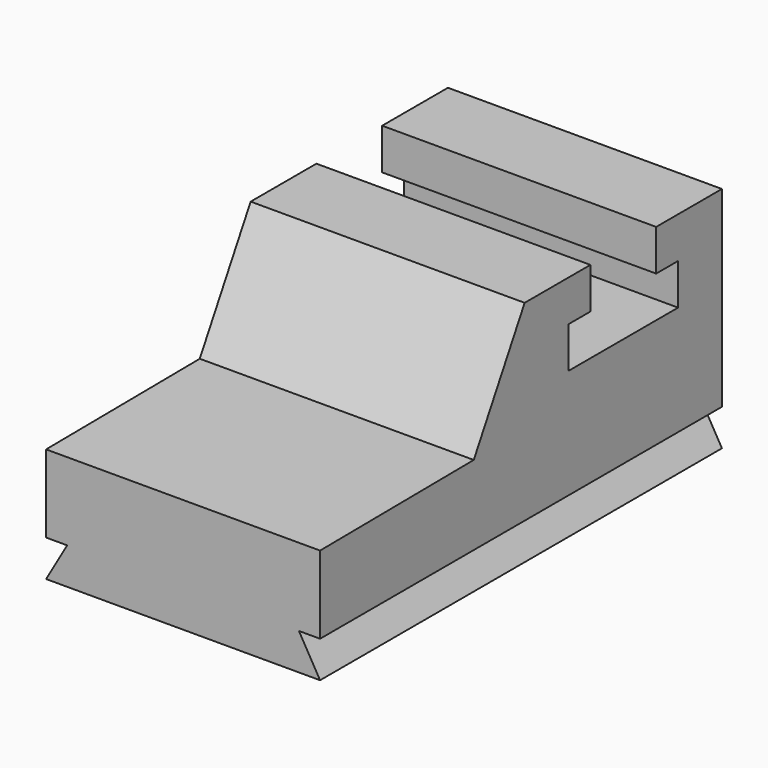
from build123d import *

# Parameters (mm, degrees)
F1_DEPTH = 1524
F3_DEPTH = 2794.001


with BuildPart() as f1:
    # F0 (on Right) → F1 (new body)
    with BuildSketch(Plane.YZ):
        Polygon((-101.112783, 578.011213), (-101.112783, -56.988787), (2692.887217, -56.988787), (2692.887217, 1213.011213), (2235.687217, 1213.011213), (2235.687217, 984.411213), (2388.087217, 984.411213), (2388.087217, 755.811213), (1626.087217, 755.811213), (1626.087217, 984.411213), (1778.487217, 984.411213), (1778.487217, 1213.011213), (1321.287217, 1213.011213), (967.470828, 587.466061), align=None)
    extrude(amount=F1_DEPTH)

    # F2 (on face) → F3 (cut, through all)
    with BuildSketch(Plane.XZ.offset(101.112783)):
        Polygon((1406.682425, 146.211213), (1524, -56.988787), (1524, 146.211213), align=None)
        Polygon((0, 146.211213), (0, -56.988787), (117.317575, 146.211213), align=None)
    extrude(amount=-F3_DEPTH, mode=Mode.SUBTRACT)


solid = f1.part
